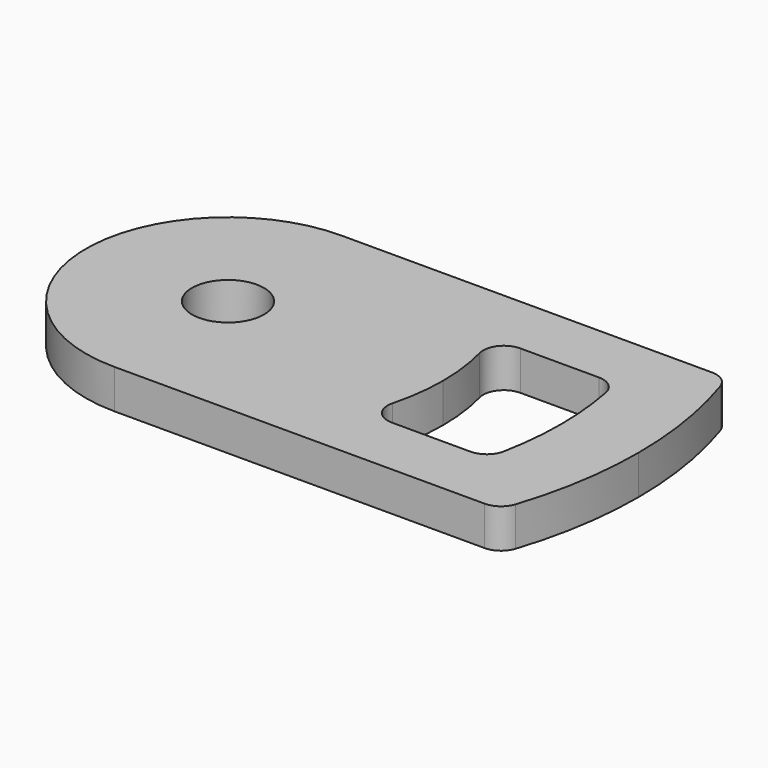
from build123d import *

# Parameters (mm, degrees)
F0_R     = 1.75
F1_DEPTH = 1.9
F2_R     = 1


with BuildPart() as f1:
    # F0 (on Top) → F1 (new body)
    with BuildSketch(Plane.XY):
        with BuildLine():
            ThreePointArc((0, -6.9), (4.8790367902, -4.8790367902), (6.9, 0))
            ThreePointArc((6.9, 0), (4.8790367902, 4.8790367902), (0, 6.9))
            ThreePointArc((0, 6.9), (-6.9, 0), (0, -6.9))
        make_face()
        Circle(F0_R, mode=Mode.SUBTRACT)
        with BuildLine():
            ThreePointArc((0, 6.9), (4.8790367902, 4.8790367902), (6.9, 0))
            ThreePointArc((6.9, 0), (4.8790367902, -4.8790367902), (0, -6.9))
            Line((0, -6.9), (7.8445393942, -6.9))
            ThreePointArc((7.8445393942, -6.9), (8.8956971876, -5.4784459341), (9.6920997883, -3.9))
            ThreePointArc((9.6920997883, -3.9), (10.2567881638, -1.9862262888), (10.4473345073, 0))
            ThreePointArc((10.4473345073, 0), (10.2567881638, 1.9862262888), (9.6920997883, 3.9))
            ThreePointArc((9.6920997883, 3.9), (8.8956971876, 5.4784459341), (7.8445393942, 6.9))
            Line((7.8445393942, 6.9), (0, 6.9))
        make_face()
        with BuildLine():
            Line((14.6233373676, 6.9), (7.8445393942, 6.9))
            ThreePointArc((7.8445393942, 6.9), (8.8956971876, 5.4784459341), (9.6920997883, 3.9))
            Line((9.6920997883, 3.9), (15.6920997883, 3.9))
            ThreePointArc((15.6920997883, 3.9), (15.231757367, 5.4263766252), (14.6233373676, 6.9))
        make_face()
        with BuildLine():
            ThreePointArc((9.6920997883, -3.9), (8.8956971876, -5.4784459341), (7.8445393942, -6.9))
            Line((7.8445393942, -6.9), (14.6233373676, -6.9))
            ThreePointArc((14.6233373676, -6.9), (15.231757367, -5.4263766252), (15.6920997883, -3.9))
            Line((15.6920997883, -3.9), (9.6920997883, -3.9))
        make_face()
        with BuildLine():
            Line((18.6920997883, 6.9), (14.6233373676, 6.9))
            ThreePointArc((14.6233373676, 6.9), (15.231757367, 5.4263766252), (15.6920997883, 3.9))
            ThreePointArc((15.6920997883, 3.9), (16.0496892009, 1.9645539746), (16.169477288, 0))
            ThreePointArc((16.169477288, 0), (16.0496892009, -1.9645539746), (15.6920997883, -3.9))
            ThreePointArc((15.6920997883, -3.9), (15.231757367, -5.4263766252), (14.6233373676, -6.9))
            Line((14.6233373676, -6.9), (18.6920997883, -6.9))
            ThreePointArc((18.6920997883, -6.9), (19.6143340367, -3.5046390388), (19.9249741404, 0))
            ThreePointArc((19.9249741404, 0), (19.6143340367, 3.5046390388), (18.6920997883, 6.9))
        make_face()
    extrude(amount=F1_DEPTH)

    # F2
    f2_edges = [f1.edges().sort_by_distance(p)[0] for p in [
        (18.6921, -6.9, 0.95),
        (18.6921, 6.9, 0.95),
        (9.6921, 3.9, 0.95),
        (15.6921, 3.9, 0.95),
        (9.6921, -3.9, 0.95),
        (15.6921, -3.9, 0.95),
    ]]
    fillet(f2_edges, radius=F2_R)


solid = f1.part
